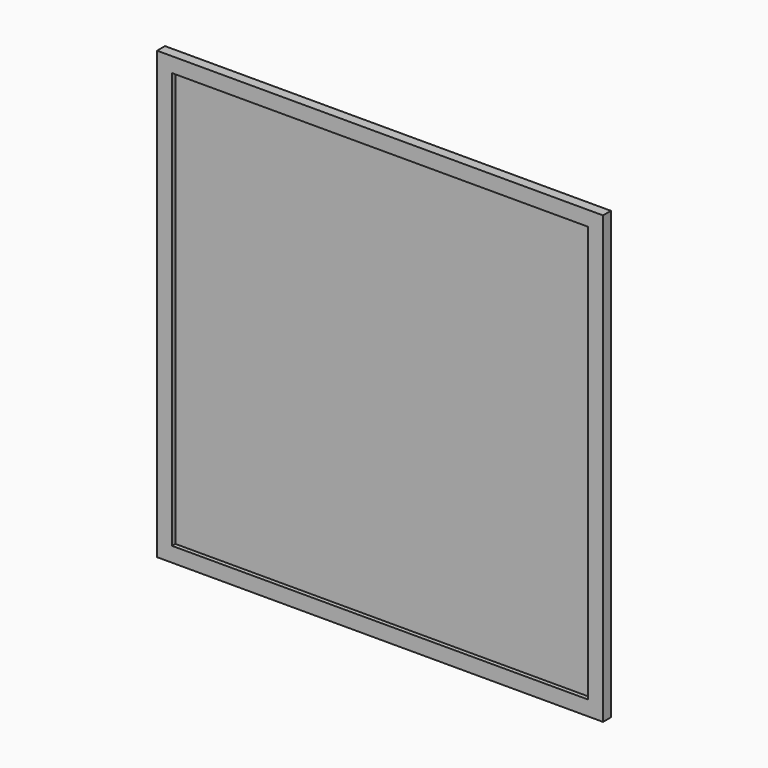
from build123d import *

# Parameters (mm, degrees)
F0_W     = 1800
F0_H     = 1800
F0_W_2   = 1680
F0_H_2   = 1680
F1_DEPTH = 20
F2_DEPTH = 3


with BuildPart() as f1:
    # F0 (on Front) → F1 (new body, symmetric)
    with BuildSketch(Plane.XZ):
        Rectangle(F0_W, F0_H)
        Rectangle(F0_W_2, F0_H_2, mode=Mode.SUBTRACT)
    extrude(amount=F1_DEPTH, both=True)

    # F0 (on Front) → F2 (join, symmetric)
    with BuildSketch(Plane.XZ):
        Rectangle(F0_W_2, F0_H_2)
    extrude(amount=F2_DEPTH, both=True)


solid = f1.part
